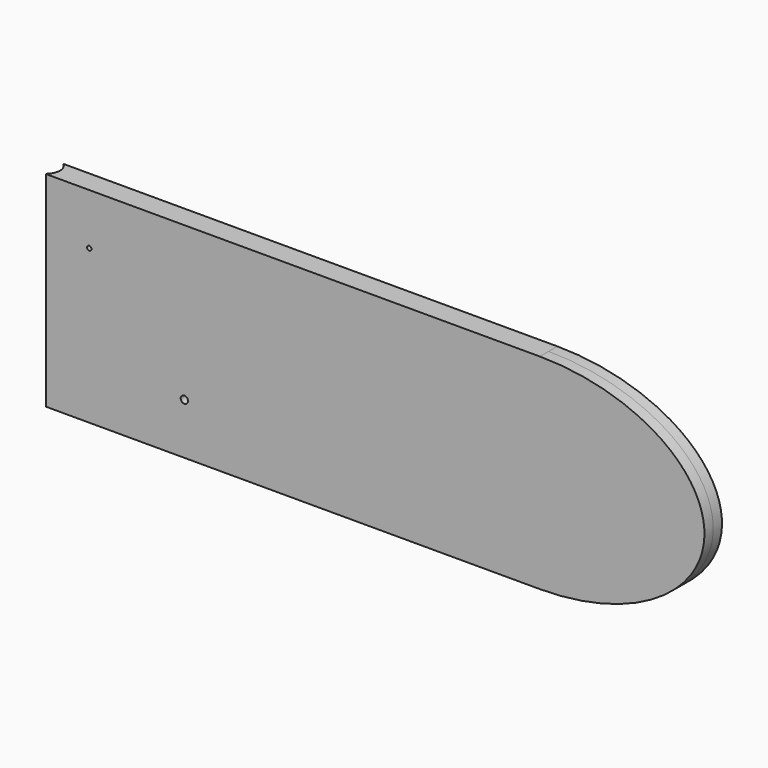
from build123d import *

# Parameters (mm, degrees)
F0_W     = 675
F0_H     = 280
F1_DEPTH = 15
F2_R     = 5
F2_R_2   = 3
F3_DEPTH = 15
F4_R     = 19.0898423248
F5_DEPTH = 140


with BuildPart() as f1:
    # F0 (on Front) → F1 (new body, symmetric)
    with BuildSketch(Plane.XZ):
        with BuildLine():
            Line((225, 140), (225, -140))
            add(Edge.make_bspline(
                [(225, -140), (450, -140), (450, 0), (450, 140), (225, 140)],
                knots=[4.7123889804, 4.7123889804, 4.7123889804, 6.2831853072, 6.2831853072, 7.853981634, 7.853981634, 7.853981634], degree=2, weights=[1, 0.7071067812, 1, 0.7071067812, 1]))
        make_face()
        with Locations((-112.5, 0)):
            Rectangle(F0_W, F0_H)
    extrude(amount=F1_DEPTH, both=True)

    # F2 (on Front) → F3 (cut, symmetric)
    with BuildSketch(Plane.XZ):
        with Locations((-261, -70)):
            Circle(F2_R)
        with Locations((-391, 70)):
            Circle(F2_R_2)
    extrude(amount=F3_DEPTH, both=True, mode=Mode.SUBTRACT)

    # F4 (on Top) → F5 (cut, symmetric)
    with BuildSketch(Plane.XY):
        with Locations((-462.5031328228, 0.4218905233)):
            Circle(F4_R)
    extrude(amount=F5_DEPTH, both=True, mode=Mode.SUBTRACT)


solid = f1.part
